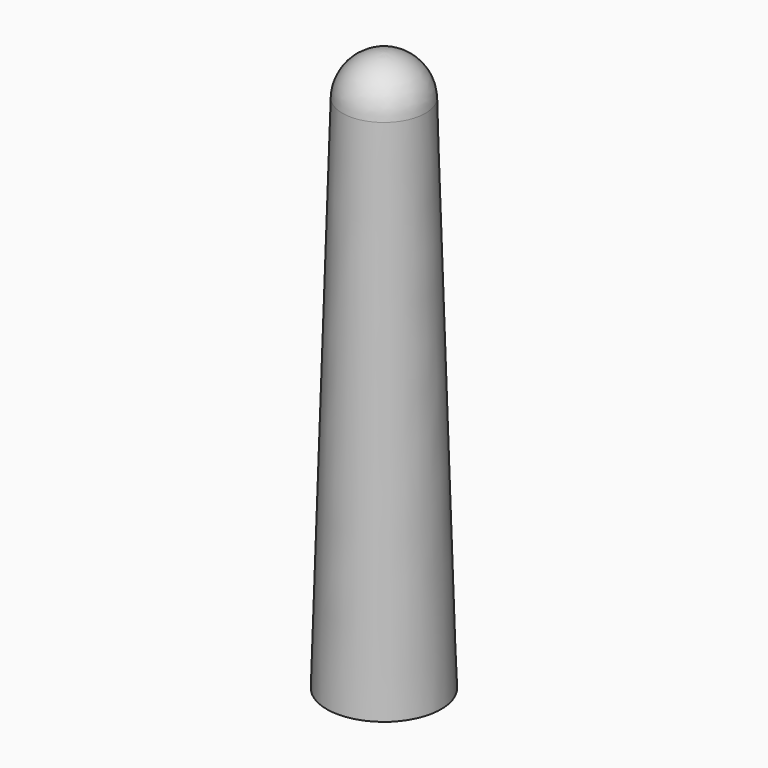
from build123d import *


with BuildPart() as f1:
    # F0 (on Front) → F1 (revolve)
    with BuildSketch(Plane.XZ):
        with BuildLine():
            ThreePointArc((0, 76.960164), (-5.573864, 74.700227), (-8, 69.196669))
            Line((-8, 69.196669), (-11, -30.75832))
            Line((-11, -30.75832), (-9.5, -30.75832))
            Line((-9.5, -30.75832), (-6.50135, 69.15169))
            ThreePointArc((-6.50135, 69.15169), (-4.529705, 73.624259), (0, 75.460839))
            Line((0, 75.460839), (0, 76.960164))
        make_face()
    revolve(axis=Axis((0, 0, 76.210501), (0, 0, -1)))


solid = f1.part
